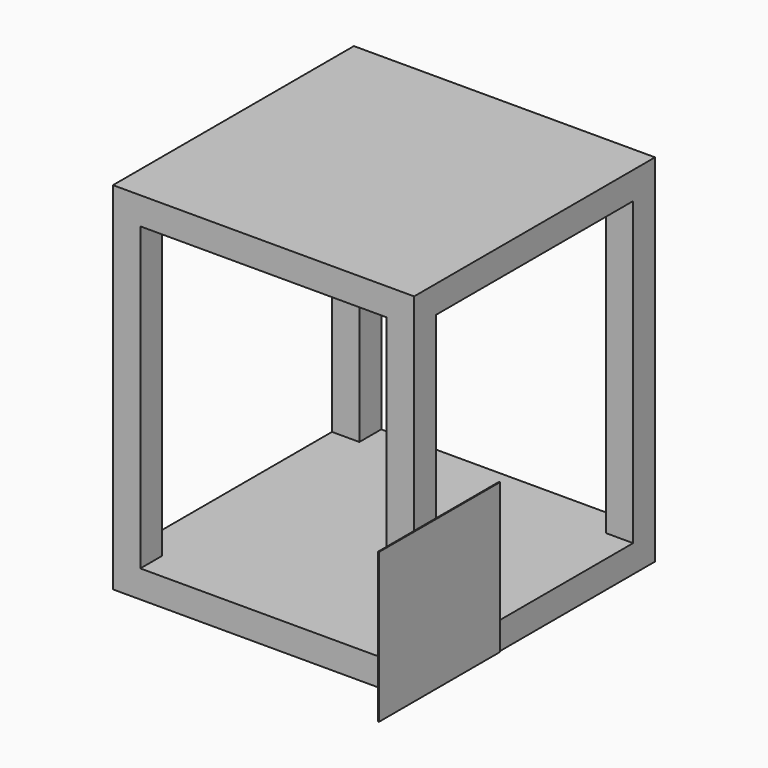
from build123d import *

# Parameters (mm, degrees)
F0_W     = 550
F0_H     = 550
F1_DEPTH = 50
F2_W     = 50
F2_H     = 50
F3_DEPTH = 550
F4_W     = 50
F4_H     = 50
F5_DEPTH = 50
F6_W     = 82.6920196414
F6_H     = 273.0440795422
F6_W_2   = 143.6941742897
F6_H_2   = 223.0440795422
F7_DEPTH = 1.8


with BuildPart() as f1:
    # F0 (on Top) → F1 (new body)
    with BuildSketch(Plane.XY):
        with Locations((-275, 275)):
            Rectangle(F0_W, F0_H)
    extrude(amount=F1_DEPTH)

    # F2 (on face) → F3 (join)
    with BuildSketch(Plane.XY.offset(50)):
        with Locations((-525, 525)):
            Rectangle(F2_W, F2_H)
        with Locations((-525, 25)):
            Rectangle(F2_W, F2_H)
        with Locations((-25, 25)):
            Rectangle(F2_W, F2_H)
        with Locations((-25, 525)):
            Rectangle(F2_W, F2_H)
    extrude(amount=F3_DEPTH)

    # F4 (on face) → F5 (join)
    with BuildSketch(Plane.XY.offset(600)):
        with Locations((-525, 525)):
            Rectangle(F4_W, F4_H)
        Polygon((0, 550), (-500, 550), (-500, 500), (-550, 500), (-550, 0), (0, 0), align=None)
    extrude(amount=F5_DEPTH)

    # F6 (on face) → F7 (join)
    with BuildSketch(Plane.YZ):
        with Locations((-41.3460098207, 136.5220397711)):
            Rectangle(F6_W, F6_H)
        Polygon((0, 0), (193.6941742897, 0), (193.6941742897, 50), (50, 50), (50, 273.0440795422), (0, 273.0440795422), align=None)
        with Locations((121.8470871449, 161.5220397711)):
            Rectangle(F6_W_2, F6_H_2)
    extrude(amount=F7_DEPTH)


solid = f1.part
